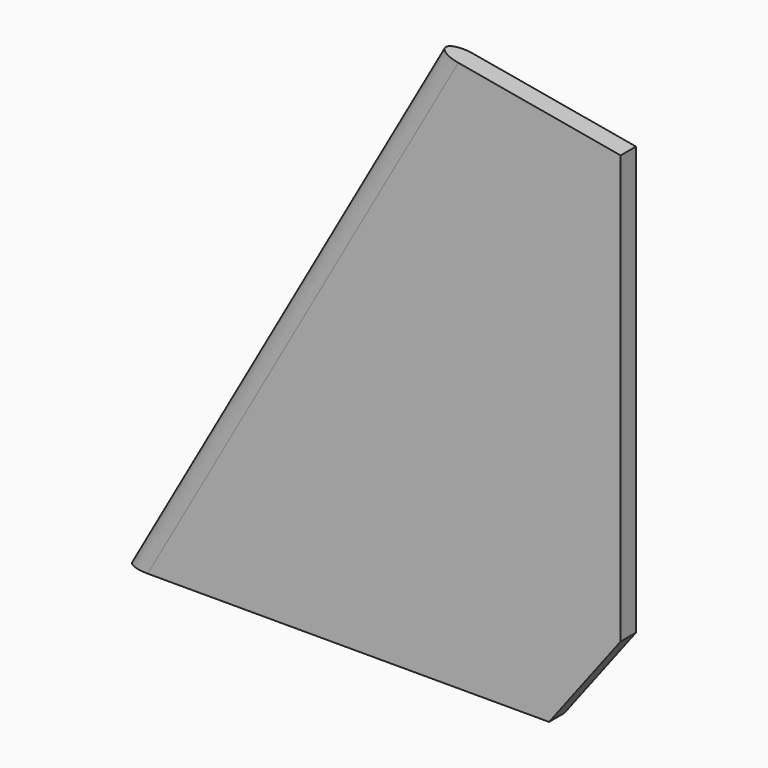
from build123d import *

# Parameters (mm, degrees)
F1_DEPTH = 1.190625
F4_DEPTH = 90.1519466601


with BuildPart() as f1:
    # F0 (on Front) → F1 (new body, symmetric)
    with BuildSketch(Plane.XZ):
        Polygon((0, 0), (47.244, 0), (56.134, 11.684), (56.134, 57.6660068989), (34.6639213115, 61.468), align=None)
        Polygon((47.244, 0), (52.578, 0), (61.468, 11.684), (61.468, 64.8230381148), (38.8178622951, 68.834), (34.6639213115, 61.468), (56.134, 57.6660068989), (56.134, 11.684), align=None)
    extrude(amount=F1_DEPTH, both=True)

    # F3 (on line) → F4 (cut, through all)
    with BuildSketch(Plane(origin=(0, 0, 0), x_dir=(0.8710411332, 0, -0.4912100817), z_dir=(0.4912100817, 0, 0.8710411332))):
        with BuildLine():
            Line((21.6994265282, -1.190625), (2.38125, -1.190625))
            add(Edge.make_bspline(
                [(0, 0), (0, -1.190625), (2.38125, -1.190625)],
                knots=[0, 0, 0, 1.5707963268, 1.5707963268, 1.5707963268], degree=2, weights=[1, 0.7071067812, 1]))
            add(Edge.make_bspline(
                [(2.38125, 1.190625), (0, 1.190625), (0, 0)],
                knots=[4.7123889804, 4.7123889804, 4.7123889804, 6.2831853072, 6.2831853072, 6.2831853072], degree=2, weights=[1, 0.7071067812, 1]))
            Line((2.38125, 1.190625), (21.6994265282, 1.190625))
            Line((21.6994265282, 1.190625), (21.6994265282, 12.7))
            Line((21.6994265282, 12.7), (-12.7, 12.7))
            Line((-12.7, 12.7), (-12.7, -12.7))
            Line((-12.7, -12.7), (21.6994265282, -12.7))
            Line((21.6994265282, -12.7), (21.6994265282, -1.190625))
        make_face()
    extrude(amount=F4_DEPTH, mode=Mode.SUBTRACT)


solid = f1.part
